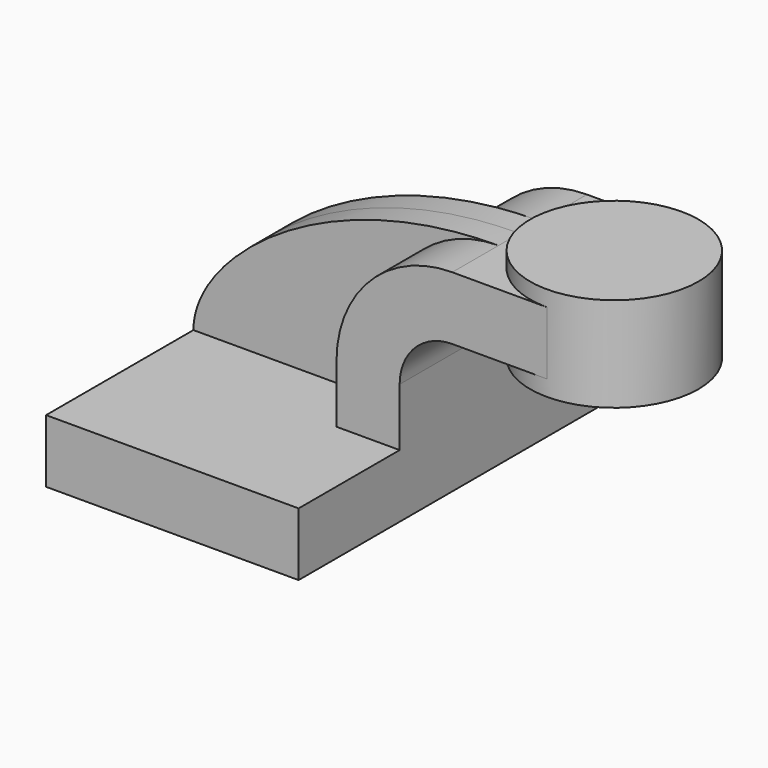
from build123d import *

# Parameters (mm, degrees)
F1_DEPTH = 63.5
F0_W     = 25.4
F0_H     = 19.05
F2_DEPTH = 25.4
F3_DEPTH = 7.9375


with BuildPart() as f1:
    # F0 (on Front) → F1 (new body, symmetric)
    with BuildSketch(Plane.XZ):
        Polygon((-38.1, -9.525), (38.1, -9.525), (38.1, 9.525), (19.05, 9.525), (-38.1, 9.525), align=None)
    extrude(amount=F1_DEPTH, both=True)

    # F0 (on Front) → F2 (join, symmetric)
    with BuildSketch(Plane.XZ):
        with BuildLine():
            Line((19.05, 9.525), (38.1, 9.525))
            Line((38.1, 9.525), (38.1, 27.0002))
            ThreePointArc((38.1, 27.0002), (42.7496798487, 38.2255201513), (53.975, 42.8752))
            Line((53.975, 42.8752), (57.15, 42.8752))
            Line((57.15, 42.8752), (57.15, 61.9252))
            Line((57.15, 61.9252), (53.975, 61.9252))
            ThreePointArc((53.975, 61.9252), (29.2792956671, 51.6959043329), (19.05, 27.0002))
            Line((19.05, 27.0002), (19.05, 9.525))
        make_face()
        with Locations((69.85, 52.4002)):
            Rectangle(F0_W, F0_H)
    extrude(amount=F2_DEPTH, both=True)

    # F0 (on Front) → F3 (join, symmetric)
    with BuildSketch(Plane.XZ):
        with BuildLine():
            add(Edge.make_bspline(
                [(-38.1, 9.525), (-38.1, 30.1610566676), (0, 61.9252), (53.975, 61.9252)],
                knots=[0, 0, 0, 0, 105.9414299745, 105.9414299745, 105.9414299745, 105.9414299745], degree=3))
            Line((-38.1, 9.525), (19.05, 9.525))
            Line((19.05, 9.525), (19.05, 27.0002))
            ThreePointArc((19.05, 27.0002), (29.2792956671, 51.6959043329), (53.975, 61.9252))
        make_face()
    extrude(amount=F3_DEPTH, both=True)

    # F0 (on Front) → F4 (revolve)
    with BuildSketch(Plane.XZ):
        Polygon((82.55, 66.675), (82.55, 61.9252), (82.55, 42.8752), (82.55, 38.1), (107.95, 38.1), (107.95, 66.675), align=None)
    revolve(axis=Axis((82.55, 0, 52.3875), (0, 0, 1)))


solid = f1.part
